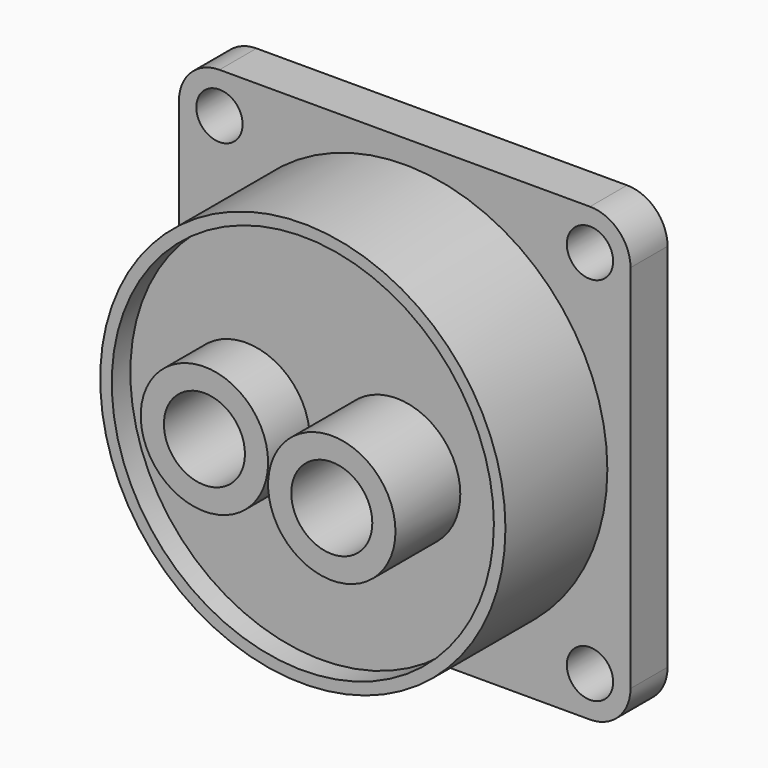
from build123d import *

# Parameters (mm, degrees)
F0_W      = 78
F0_H      = 78
F1_DEPTH  = 8
F2_R      = 7
F3_R      = 4
F4_DEPTH  = 8.001
F5_R      = 35
F6_DEPTH  = 22
F7_R      = 33
F8_DEPTH  = 4
F10_R     = 0.6
F13_DEPTH = 21
F14_R     = 7.5
F15_DEPTH = 25
F16_R     = 11
F17_DEPTH = 14
F18_R     = 11
F19_DEPTH = 9
F20_R     = 7
F21_DEPTH = 35.001
F22_R     = 7
F23_DEPTH = 40.001


with BuildPart() as f1:
    # F0 (on Front) → F1 (new body)
    with BuildSketch(Plane.XZ):
        with Locations((0, 39)):
            Rectangle(F0_W, F0_H)
    extrude(amount=F1_DEPTH)

    # F2
    f2_edges = [f1.edges().sort_by_distance(p)[0] for p in [
        (-39, -4, 78),
        (39, -4, 78),
        (39, -4, 0),
        (-39, -4, 0),
    ]]
    fillet(f2_edges, radius=F2_R)

    # F3 (on face) → F4 (cut, through all)
    with BuildSketch(Plane.XZ.offset(8)):
        with Locations((-32, 71)):
            Circle(F3_R)
        with Locations((32, 71)):
            Circle(F3_R)
        with Locations((-32, 7)):
            Circle(F3_R)
        with Locations((32, 7)):
            Circle(F3_R)
    extrude(amount=-F4_DEPTH, mode=Mode.SUBTRACT)

    # F5 (on face) → F6 (join)
    with BuildSketch(Plane.XZ.offset(8)):
        with Locations((0, 39)):
            Circle(F5_R)
    extrude(amount=F6_DEPTH)

    # F7 (on face) → F8 (cut)
    with BuildSketch(Plane.XZ.offset(30)):
        with Locations((0, 39)):
            Circle(F7_R)
    extrude(amount=-F8_DEPTH, mode=Mode.SUBTRACT)

    # F11: sweep along a path in F9
    with BuildLine(Plane(origin=(0, 0, 0), x_dir=(-1, 0, 0), z_dir=(0, 1, 0))) as f11_path:
        CenterArc((0, 39), 35, 0, 360)
    # F10 (on Right) → F11 (sweep, cut)
    with BuildSketch(Plane.YZ):
        with Locations((0, 74)):
            Circle(F10_R)
    sweep(path=f11_path.line, mode=Mode.SUBTRACT)

    # F12 (on face) → F13 (cut)
    with BuildSketch(Plane(origin=(0, 0, 0), x_dir=(-1, 0, 0), z_dir=(0, 1, 0))):
        with BuildLine():
            ThreePointArc((0, 28.8387992835), (18.3735463151, 23.3995192382), (29.5, 39))
            ThreePointArc((29.5, 39), (18.3735463151, 54.6004807618), (0, 49.1612007165))
            ThreePointArc((0, 49.1612007165), (2.6004807618, 44.3735463151), (3.5, 39))
            ThreePointArc((3.5, 39), (2.6004807618, 33.6264536849), (0, 28.8387992835))
        make_face()
        with BuildLine():
            ThreePointArc((3.5, 39), (2.6004807618, 44.3735463151), (0, 49.1612007165))
            ThreePointArc((0, 49.1612007165), (-3.5, 39), (0, 28.8387992835))
            ThreePointArc((0, 28.8387992835), (2.6004807618, 33.6264536849), (3.5, 39))
        make_face()
        with BuildLine():
            ThreePointArc((0, 28.8387992835), (-3.5, 39), (0, 49.1612007165))
            ThreePointArc((0, 49.1612007165), (-29.5, 39), (0, 28.8387992835))
        make_face()
    extrude(amount=-F13_DEPTH, mode=Mode.SUBTRACT)

    # F14 (on face) → F15 (cut)
    with BuildSketch(Plane(origin=(0, 0, 0), x_dir=(-1, 0, 0), z_dir=(0, 1, 0))):
        with Locations((0, 28.3387992835)):
            Circle(F14_R)
        with Locations((0, 49.6612007165)):
            Circle(F14_R)
    extrude(amount=-F15_DEPTH, mode=Mode.SUBTRACT)

    # F16 (on face) → F17 (join)
    with BuildSketch(Plane.XZ.offset(26)):
        with Locations((13, 39)):
            Circle(F16_R)
    extrude(amount=F17_DEPTH)

    # F18 (on face) → F19 (join)
    with BuildSketch(Plane.XZ.offset(26)):
        with Locations((-13, 39)):
            Circle(F18_R)
    extrude(amount=F19_DEPTH)

    # F20 (on face) → F21 (cut, through all)
    with BuildSketch(Plane.XZ.offset(35)):
        with Locations((-13, 39)):
            Circle(F20_R)
    extrude(amount=-F21_DEPTH, mode=Mode.SUBTRACT)

    # F22 (on face) → F23 (cut, through all)
    with BuildSketch(Plane.XZ.offset(40)):
        with Locations((13, 39)):
            Circle(F22_R)
    extrude(amount=-F23_DEPTH, mode=Mode.SUBTRACT)


solid = f1.part
